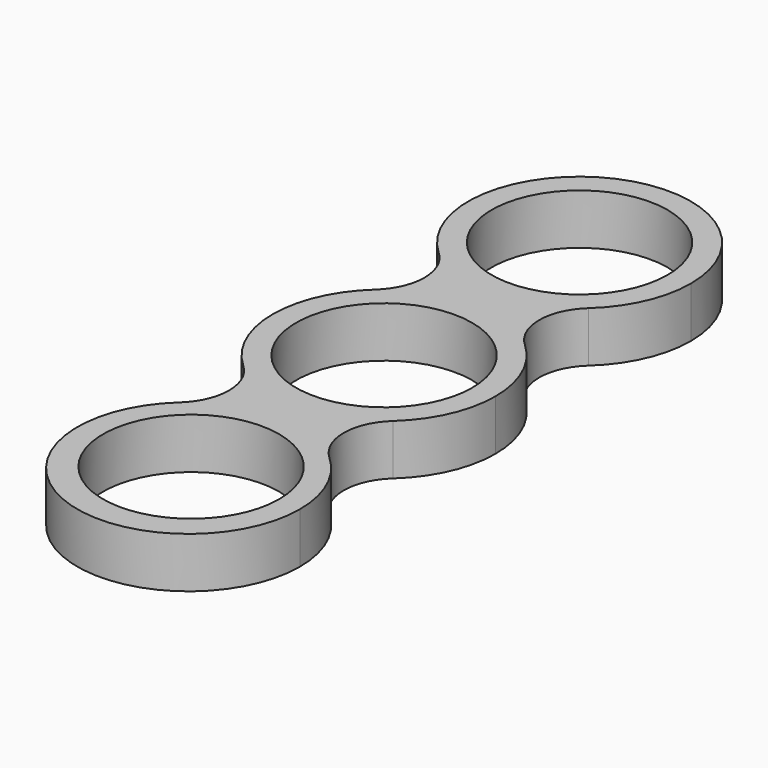
from build123d import *

# Parameters (mm, degrees)
F4_R     = 11.049
F5_DEPTH = 6.35


with BuildPart() as f5:
    # F4 (on Top) → F5 (new body)
    with BuildSketch(Plane.XY):
        with BuildLine():
            ThreePointArc((9.409508, 20.334971), (12.779118, 25.01674), (13.97, 30.660767))
            ThreePointArc((13.97, 30.660767), (-5.644027, 43.439885), (-9.409508, 20.334971))
            ThreePointArc((-9.409508, 20.334971), (0, 16.690767), (9.409508, 20.334971))
        make_face()
        with Locations((0, 30.660767)):
            Circle(F4_R, mode=Mode.SUBTRACT)
        with BuildLine():
            ThreePointArc((9.409508, 20.334971), (0, 16.690767), (-9.409508, 20.334971))
            ThreePointArc((-9.409508, 20.334971), (-7.199181, 15.330384), (-9.409508, 10.325796))
            ThreePointArc((-9.409508, 10.325796), (0, 13.97), (9.409508, 10.325796))
            ThreePointArc((9.409508, 10.325796), (7.199181, 15.330384), (9.409508, 20.334971))
        make_face()
        Circle(F4_R)
        with BuildLine():
            ThreePointArc((9.409508, 10.325796), (0, 13.97), (-9.409508, 10.325796))
            ThreePointArc((-9.409508, 10.325796), (-13.97, 0), (-9.409508, -10.325796))
            ThreePointArc((-9.409508, -10.325796), (0, -13.97), (9.409508, -10.325796))
            ThreePointArc((9.409508, -10.325796), (12.779118, -5.644027), (13.97, 0))
            ThreePointArc((13.97, 0), (12.779118, 5.644027), (9.409508, 10.325796))
        make_face()
        Circle(F4_R, mode=Mode.SUBTRACT)
        with BuildLine():
            ThreePointArc((9.409508, -10.325796), (0, -13.97), (-9.409508, -10.325796))
            ThreePointArc((-9.409508, -10.325796), (-7.199181, -15.330384), (-9.409508, -20.334971))
            ThreePointArc((-9.409508, -20.334971), (0, -16.690767), (9.409508, -20.334971))
            ThreePointArc((9.409508, -20.334971), (7.199181, -15.330384), (9.409508, -10.325796))
        make_face()
        with BuildLine():
            ThreePointArc((9.409508, -20.334971), (0, -16.690767), (-9.409508, -20.334971))
            ThreePointArc((-9.409508, -20.334971), (-5.644027, -43.439885), (13.97, -30.660767))
            ThreePointArc((13.97, -30.660767), (12.779118, -25.01674), (9.409508, -20.334971))
        make_face()
        with Locations((0, -30.271422)):
            Circle(F4_R, mode=Mode.SUBTRACT)
    extrude(amount=F5_DEPTH)


solid = f5.part
